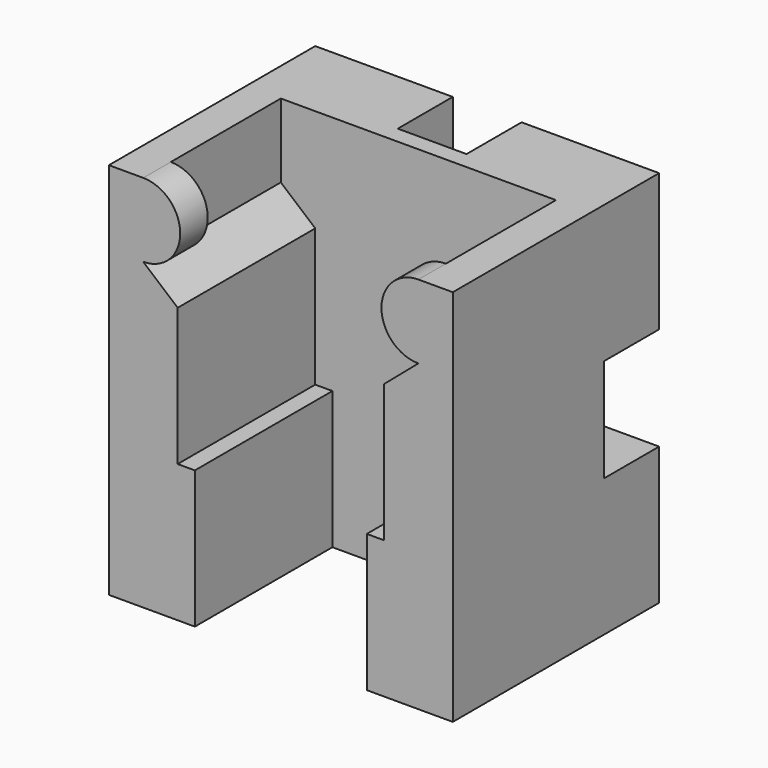
from build123d import *

# Parameters (mm, degrees)
F0_W      = 20
F0_H      = 22
F1_DEPTH  = 11
F3_DEPTH  = 10
F5_DEPTH  = 2
F6_W      = 8
F6_H      = 8
F7_DEPTH  = 4
F8_W      = 7
F8_H      = 2.5
F9_DEPTH  = 25
F11_W     = 8
F11_H     = 4
F12_DEPTH = 1
F10_W     = 8
F10_H     = 4
F13_DEPTH = 1


with BuildPart() as f1:
    # F0 (on Front) → F1 (new body)
    with BuildSketch(Plane.XZ):
        Rectangle(F0_W, F0_H)
    extrude(amount=F1_DEPTH)

    # F2 (on face) → F3 (cut)
    with BuildSketch(Plane.XZ.offset(11)):
        Polygon((8, 6.704264), (8, 11), (-8, 11), (-8, 6.704264), (-6, 5), (-6, -3), (-5, -3), (-5, -11), (5, -11), (5, -3), (6, -3), (6, 5), align=None)
    extrude(amount=-F3_DEPTH, mode=Mode.SUBTRACT)

    # F4 (on face) → F5 (join)
    with BuildSketch(Plane.XZ.offset(11)):
        with BuildLine():
            Line((-8, 11), (-8, 6.704264))
            ThreePointArc((-8, 6.704264), (-5.852132, 8.852132), (-8, 11))
        make_face()
        with BuildLine():
            ThreePointArc((8, 11), (5.852132, 8.852132), (8, 6.704264))
            Line((8, 6.704264), (8, 11))
        make_face()
    extrude(amount=-F5_DEPTH)

    # F6 (on face) → F7 (join)
    with BuildSketch(Plane(origin=(0, 0, 0), x_dir=(-1, 0, 0), z_dir=(0, 1, 0))):
        with Locations((-6, 7)):
            Rectangle(F6_W, F6_H)
        with Locations((6, 7)):
            Rectangle(F6_W, F6_H)
        with Locations((-6, -7)):
            Rectangle(F6_W, F6_H)
        with Locations((6, -7)):
            Rectangle(F6_W, F6_H)
    extrude(amount=F7_DEPTH)

    # F8 (on face) → F9 (cut)
    with BuildSketch(Plane.XY.offset(11)):
        with Locations((-6, 2)):
            Rectangle(F8_W, F8_H)
        with Locations((6, 2)):
            Rectangle(F8_W, F8_H)
    extrude(amount=-F9_DEPTH, mode=Mode.SUBTRACT)

    # F11 (on face) → F12 (join)
    with BuildSketch(Plane.XY.offset(-3)):
        with Locations((6, 2)):
            Rectangle(F11_W, F11_H)
        with Locations((-6, 2)):
            Rectangle(F11_W, F11_H)
    extrude(amount=-F12_DEPTH)

    # F10 (on face) → F13 (join)
    with BuildSketch(Plane.XY.offset(11)):
        with Locations((6, 2)):
            Rectangle(F10_W, F10_H)
        with Locations((-6, 2)):
            Rectangle(F10_W, F10_H)
    extrude(amount=-F13_DEPTH)


solid = f1.part
